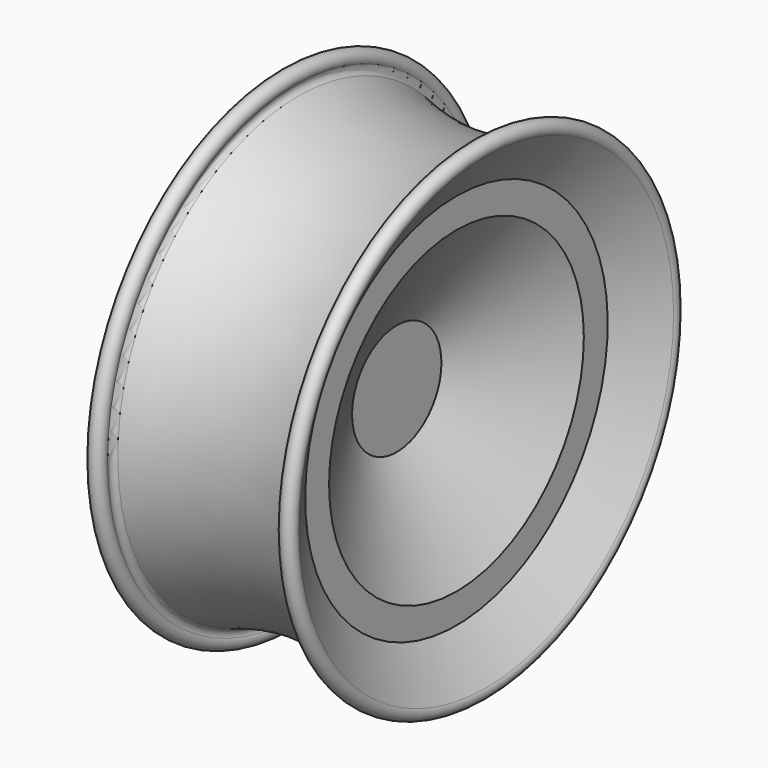
from build123d import *


with BuildPart() as f1:
    # F0 (on Front) → F1 (revolve)
    with BuildSketch(Plane.XZ):
        with BuildLine():
            Line((797.5, 0), (847.5, 0))
            Line((847.5, 0), (847.5, 56.076952))
            Line((847.5, 56.076952), (907.5, 160))
            Line((907.5, 160), (907.5, 190))
            Line((907.5, 190), (937.5, 235.227916))
            ThreePointArc((937.5, 235.227916), (931.007109, 247.648111), (923.980725, 235.521743))
            ThreePointArc((923.980725, 235.521743), (924.486836, 230.393796), (920.829058, 226.76438))
            ThreePointArc((920.829058, 226.76438), (834.693279, 212.081782), (748.5575, 226.76438))
            ThreePointArc((748.5575, 226.76438), (744.899722, 230.393796), (745.405833, 235.521743))
            ThreePointArc((745.405833, 235.521743), (738.379448, 247.648111), (731.886557, 235.227916))
            Line((731.886557, 235.227916), (781.785772, 160))
            Line((781.785772, 160), (797.5, 56.076952))
            Line((797.5, 56.076952), (797.5, 0))
        make_face()
    revolve(axis=Axis((498.75, 0, 0), (1, 0, 0)))


solid = f1.part
